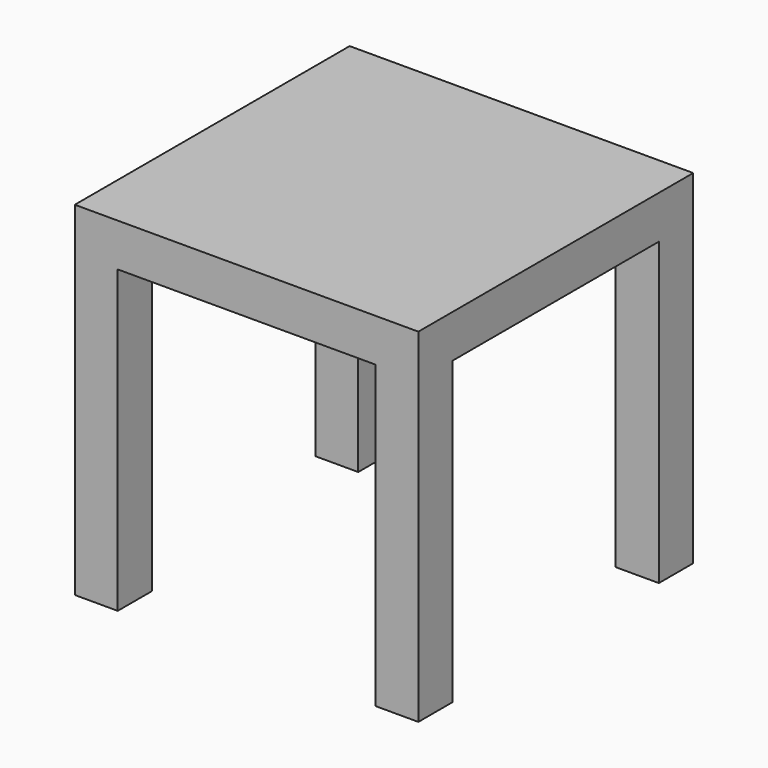
from build123d import *

# Parameters (mm, degrees)
F0_W      = 400
F0_H      = 400
F1_DEPTH  = 350
F2_W      = 400
F2_H      = 50
F3_DEPTH  = 300
F5_DEPTH  = 50
F6_DEPTH  = 250
F7_DEPTH  = 250
F8_W      = 400
F8_H      = 96.5097817794
F9_DEPTH  = 300
F10_DEPTH = 50
F11_DEPTH = 350
F12_DEPTH = 345.44


with BuildPart() as f1:
    # F0 (on Top) → F1 (new body)
    with BuildSketch(Plane.XY):
        with Locations((-2.5529135019, 43.6986592397)):
            Rectangle(F0_W, F0_H)
    extrude(amount=F1_DEPTH)

    # F2 (on face) → F3 (join)
    with BuildSketch(Plane.XY.offset(350)):
        with Locations((-2.5529135019, 218.6986592397)):
            Rectangle(F2_W, F2_H)
    extrude(amount=F3_DEPTH)

    # F5 (add): a face of the model
    f5_faces = [f1.faces().sort_by_distance(p)[0] for p in [
        (-2.5529135019, 18.6986592397, 350),
    ]]
    extrude(f5_faces, amount=F5_DEPTH)

    # F6 (add): a face of the model
    f6_faces = [f1.faces().sort_by_distance(p)[0] for p in [
        (-2.5529135019, 218.6986592397, 650),
    ]]
    extrude(f6_faces, amount=-F6_DEPTH)

    # F7 (cut): a face of the model
    f7_faces = [f1.faces().sort_by_distance(p)[0] for p in [
        (-2.5529135019, 218.6986592397, 650),
    ]]
    extrude(f7_faces, amount=-F7_DEPTH, mode=Mode.SUBTRACT)

    # F8 (on face) → F9 (join)
    with BuildSketch(Plane.XY.offset(400)):
        with Locations((-2.5529135019, 291.9535501294)):
            Rectangle(F8_W, F8_H)
    extrude(amount=F9_DEPTH)

    # F10 (add): a face of the model
    f10_faces = [f1.faces().sort_by_distance(p)[0] for p in [
        (-2.5529135019, 243.6986592397, 550),
    ]]
    extrude(f10_faces, amount=-F10_DEPTH)

    # F4 (on face) → F11 (cut)
    with BuildSketch(Plane(origin=(0, 0, 0), x_dir=(1, 0, 0), z_dir=(0, 0, -1))):
        Polygon((147.4470864981, 156.3013407603), (-152.5529135019, 156.3013407603), (-152.5529135019, 106.3013407603), (-202.5529135019, 106.3013407603), (-202.5529135019, -193.6986592397), (-152.5529135019, -193.6986592397), (-152.5529135019, -243.6986592397), (146.7532366514, -243.6986592397), (146.7532366514, -193.6986592397), (197.4470864981, -193.6986592397), (197.4470864981, 106.3013407603), (147.4470864981, 106.3013407603), align=None)
    extrude(amount=-F11_DEPTH, mode=Mode.SUBTRACT)

    # F12 (cut): a face of the model
    f12_faces = [f1.faces().sort_by_distance(p)[0] for p in [
        (-2.5529135019, 291.9535501294, 700),
    ]]
    extrude(f12_faces, amount=-F12_DEPTH, mode=Mode.SUBTRACT)


solid = f1.part
